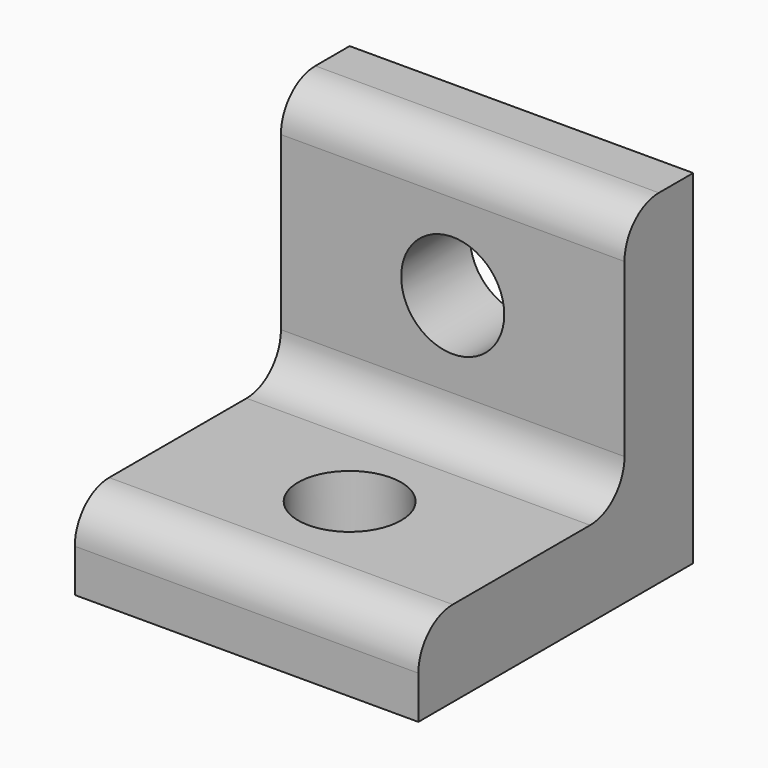
from build123d import *

# Parameters (mm, degrees)
F1_DEPTH = 12.7
F2_R     = 3.175
F3_R     = 3.81
F4_DEPTH = 25.4
F5_R     = 3.81
F6_DEPTH = 25.4


with BuildPart() as f1:
    # F0 (on Right) → F1 (new body, symmetric)
    with BuildSketch(Plane.YZ):
        Polygon((0, 6.35), (0, 0), (25.4, 0), (25.4, 25.4), (19.05, 25.4), (19.05, 6.35), align=None)
    extrude(amount=F1_DEPTH, both=True)

    # F2
    f2_edges = [f1.edges().sort_by_distance(p)[0] for p in [
        (0, 0, 6.35),
        (0, 19.05, 6.35),
        (0, 19.05, 25.4),
    ]]
    fillet(f2_edges, radius=F2_R)

    # F3 (on face) → F4 (cut)
    with BuildSketch(Plane.XY.offset(6.35)):
        with Locations((0, 9.525)):
            Circle(F3_R)
    extrude(amount=-F4_DEPTH, mode=Mode.SUBTRACT)

    # F5 (on face) → F6 (cut)
    with BuildSketch(Plane.XZ.offset(-19.05)):
        with Locations((0, 15.875)):
            Circle(F5_R)
    extrude(amount=-F6_DEPTH, mode=Mode.SUBTRACT)


solid = f1.part
